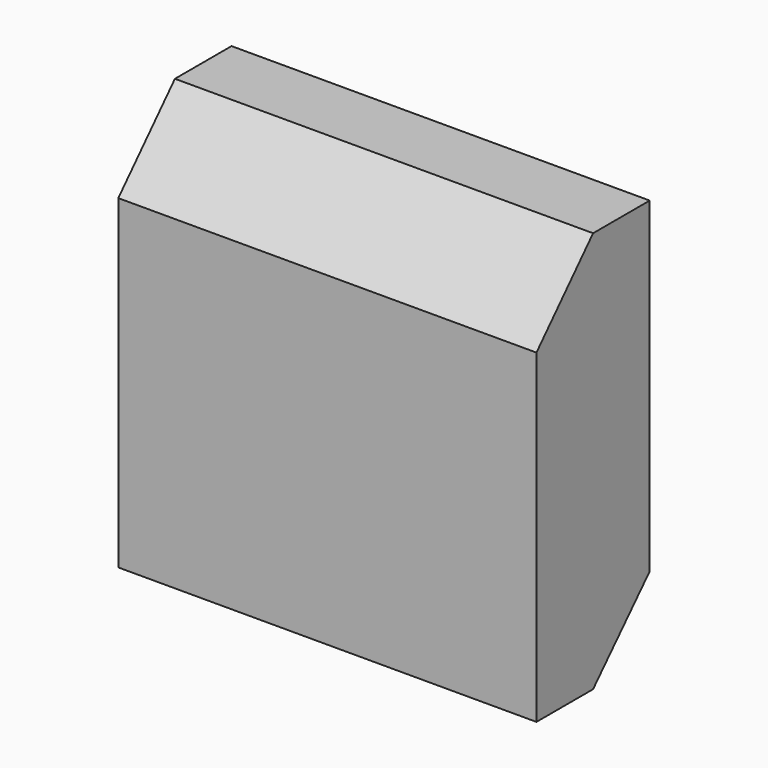
from build123d import *

# Parameters (mm, degrees)
F0_W     = 150.831726
F0_H     = 144.798462
F1_DEPTH = 51.054
F3_DEPTH = 160.02


with BuildPart() as f1:
    # F0 (on Front) → F1 (new body)
    with BuildSketch(Plane.XZ):
        with Locations((24.926925, -18.417349)):
            Rectangle(F0_W, F0_H)
    extrude(amount=F1_DEPTH)

    # F2 (on face) → F3 (cut)
    with BuildSketch(Plane.YZ.offset(100.342788)):
        Polygon((-51.054, 53.981882), (-51.054, 26.461449), (-25.527, 53.981882), align=None)
        Polygon((0, -63.754097), (-25.527, -90.81658), (0, -90.81658), align=None)
    extrude(amount=-F3_DEPTH, mode=Mode.SUBTRACT)


solid = f1.part
